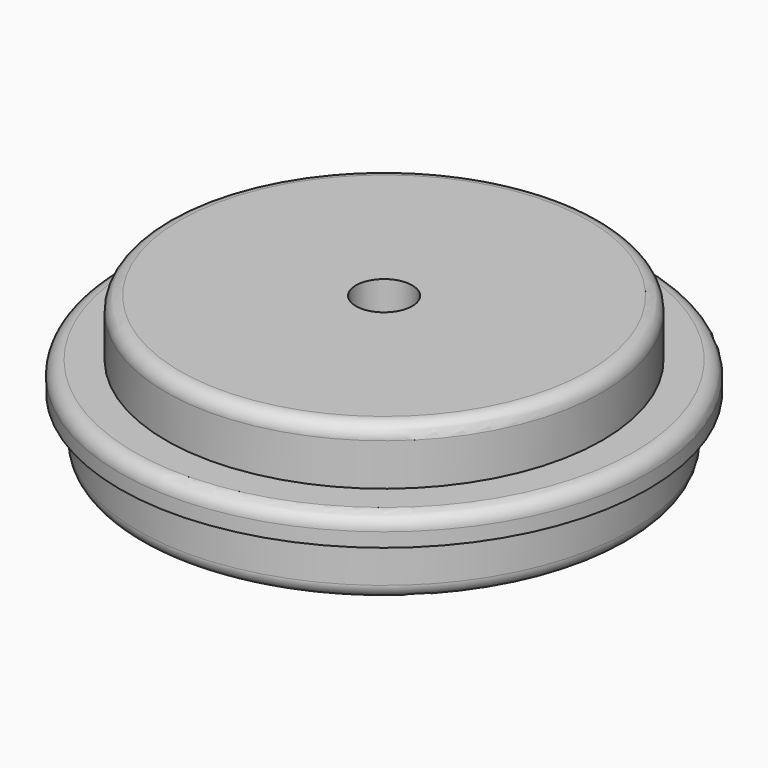
from build123d import *

# Parameters (mm, degrees)
SKETCH_R        = 37.5
PAD_DEPTH       = 20
SKETCH001_R     = 41.795257
SKETCH001_R_2   = 31
POCKET_DEPTH    = 8
SKETCH002_R     = 43.633229
SKETCH002_R_2   = 35
POCKET001_DEPTH = 8
SKETCH003_R     = 30
POCKET002_DEPTH = 8
SKETCH004_R     = 4
POCKET003_DEPTH = 20
FILLET_R        = 2


with BuildPart() as part:
    # Sketch → Pad (new body)
    with BuildSketch(Plane.XY):
        Circle(SKETCH_R)
    extrude(amount=PAD_DEPTH)

    # Sketch001 (on Face3 of Pad) → Pocket (cut)
    with BuildSketch(Plane.XY.offset(20)):
        Circle(SKETCH001_R)
        Circle(SKETCH001_R_2, mode=Mode.SUBTRACT)
    extrude(amount=-POCKET_DEPTH, mode=Mode.SUBTRACT)

    # Sketch002 (on Face2 of Pocket) → Pocket001 (cut)
    with BuildSketch(Plane(origin=(0, 0, 0), x_dir=(1, 0, 0), z_dir=(0, 0, -1))):
        Circle(SKETCH002_R)
        Circle(SKETCH002_R_2, mode=Mode.SUBTRACT)
    extrude(amount=-POCKET001_DEPTH, mode=Mode.SUBTRACT)

    # Sketch003 (on Face6 of Pocket001) → Pocket002 (cut)
    with BuildSketch(Plane(origin=(0, 0, 0), x_dir=(1, 0, 0), z_dir=(0, 0, -1))):
        Circle(SKETCH003_R)
    extrude(amount=-POCKET002_DEPTH, mode=Mode.SUBTRACT)

    # Sketch004 (on Face7 of Pocket002) → Pocket003 (cut)
    with BuildSketch(Plane.XY.offset(20)):
        Circle(SKETCH004_R)
    extrude(amount=-POCKET003_DEPTH, mode=Mode.SUBTRACT)

    # Fillet
    fillet_edges = [part.edges().sort_by_distance(p)[0] for p in [
        (-31, 0, 20),
        (-37.5, 0, 12),
        (-30, 0, 0),
        (-35, 0, 0),
    ]]
    fillet(fillet_edges, radius=FILLET_R)


solid = part.part
